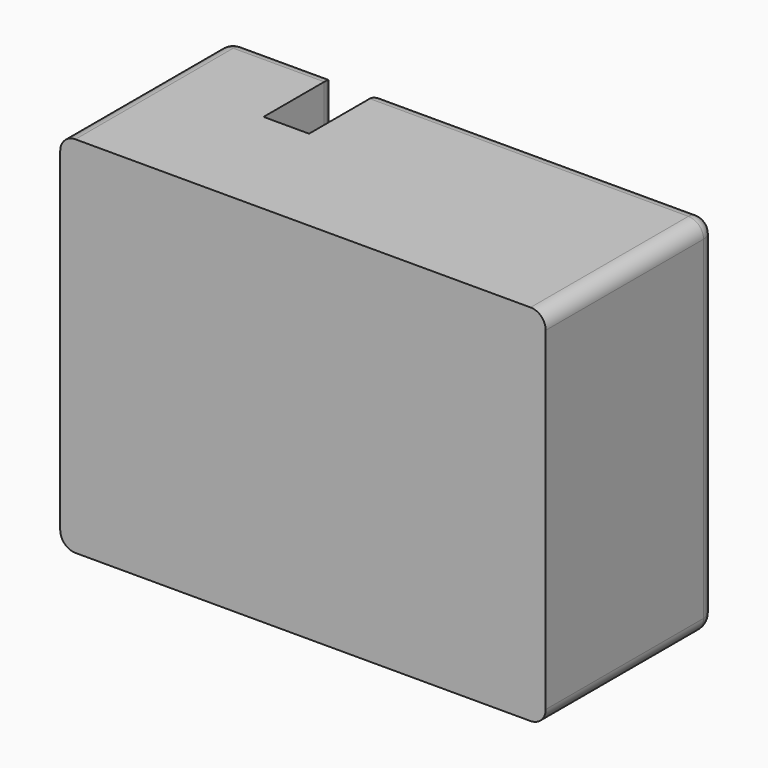
from build123d import *

# Parameters (mm, degrees)
PAD_DEPTH = 12
FILLET_R  = 0.5


with BuildPart() as part:
    # Sketch → Pad (new body)
    with BuildSketch(Plane.XY):
        Polygon((0, 0), (16, 0), (16, 7), (5, 7), (5, 4), (3.5, 4), (3.5, 7), (0, 7), align=None)
    extrude(amount=PAD_DEPTH)

    # Fillet
    fillet_edges = [part.edges().sort_by_distance(p)[0] for p in [
        (10.5, 7, 0),
        (16, 7, 6),
        (5, 7, 6),
        (10.5, 7, 12),
        (1.75, 7, 12),
        (0, 7, 6),
        (3.5, 7, 6),
        (1.75, 7, 0),
        (0, 3.5, 0),
        (16, 3.5, 0),
        (16, 3.5, 12),
        (0, 3.5, 12),
    ]]
    fillet(fillet_edges, radius=FILLET_R)


solid = part.part
